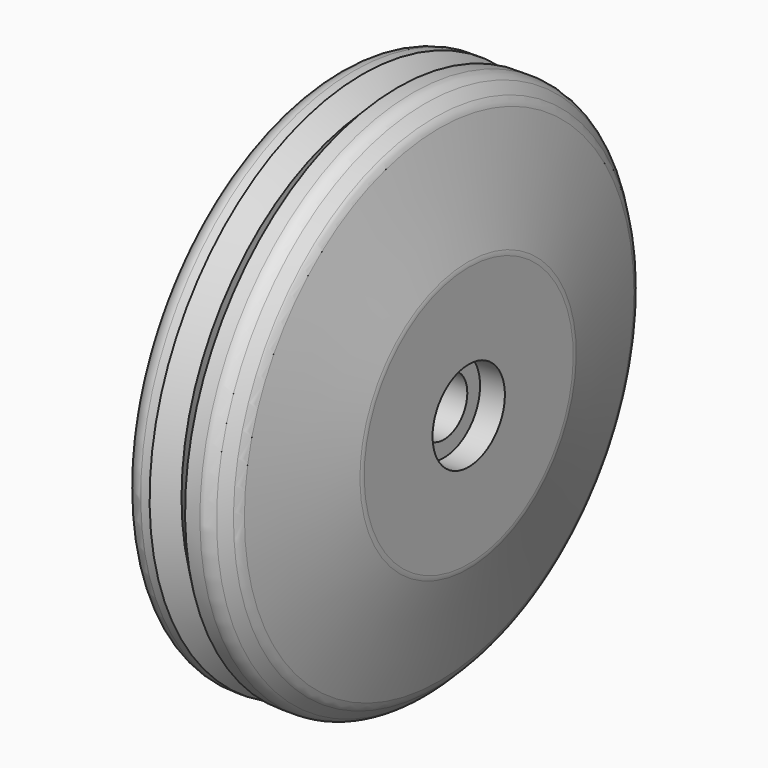
from build123d import *


with BuildPart() as f1:
    # F0 (on Front) → F1 (revolve)
    with BuildSketch(Plane.XZ):
        with BuildLine():
            ThreePointArc((0, 14.736695), (-0.01711, 14.997747), (-0.068148, 15.254333))
            Line((-0.068148, 15.254333), (-3.338541, 27.459603))
            ThreePointArc((-3.338541, 27.459603), (-3.538341, 27.941965), (-3.856179, 28.356179))
            Line((-3.856179, 28.356179), (-4.914214, 29.414214))
            ThreePointArc((-4.914214, 29.414214), (-5.56306, 29.847759), (-6.328427, 30))
            Line((-6.328427, 30), (-8, 30))
            Line((-8, 30), (-10, 28))
            Line((-10, 28), (-12, 30))
            Line((-12, 30), (-13, 30))
            ThreePointArc((-13, 30), (-14.4142, 29.414227), (-15, 28.000038))
            Line((-15, 28.000038), (-15, 0))
            Line((-15, 0), (-10, 0))
            Line((-10, 0), (-10, 3.3))
            Line((-10, 3.3), (-2.8, 3.3))
            Line((-2.8, 3.3), (-2.8, 5.1))
            Line((-2.8, 5.1), (0, 5.1))
            Line((0, 5.1), (0, 14.736695))
        make_face()
    revolve(axis=Axis((-0.70766, 0, 0), (1, 0, 0)))


solid = f1.part
